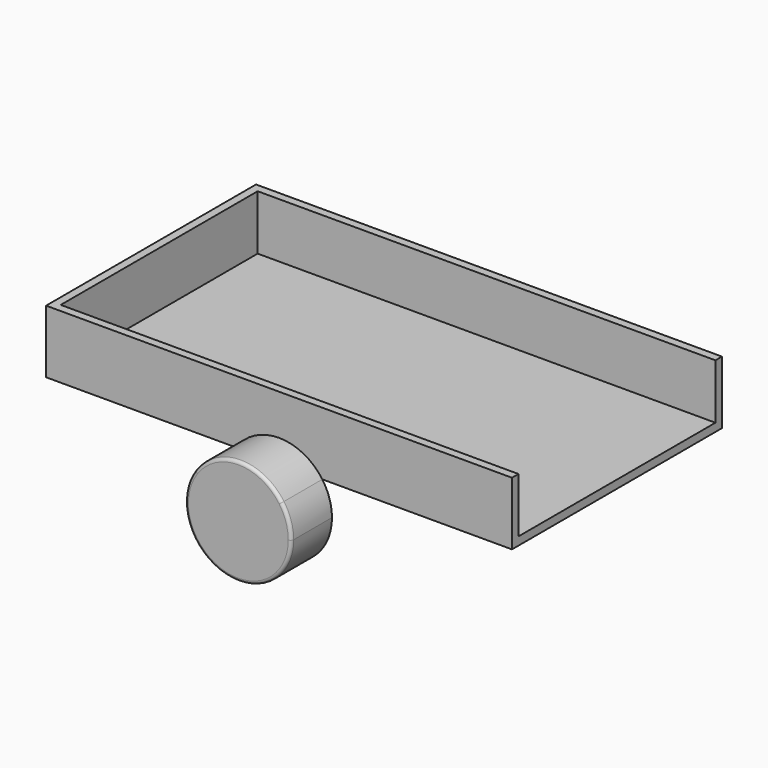
from build123d import *

# Parameters (mm, degrees)
F0_W     = 2290
F0_H     = 1290
F1_DEPTH = 310
F2_T     = -40
F4_DEPTH = 250
F5_R     = 15


with BuildPart() as f1:
    # F0 (on Top) → F1 (new body)
    with BuildSketch(Plane.XY):
        Rectangle(F0_W, F0_H)
    extrude(amount=F1_DEPTH)

    # F2
    f2_openings = [f1.faces().sort_by_distance(p)[0] for p in [
        (0, 0, 310),
        (1145, 0, 155),
    ]]
    offset(amount=F2_T, openings=f2_openings)

    # F3 (on face) → F4 (join)
    with BuildSketch(Plane.XZ.offset(645)):
        with BuildLine():
            Line((-212.795964, 0), (212.795964, 0))
            ThreePointArc((212.795964, 0), (0, 110.35), (-212.795964, 0))
        make_face()
        with BuildLine():
            ThreePointArc((-212.795964, 0), (-78.678756, -398.176904), (260.35, -150))
            ThreePointArc((260.35, -150), (248.176904, -71.321244), (212.795964, 0))
            Line((212.795964, 0), (-212.795964, 0))
        make_face()
    extrude(amount=F4_DEPTH)

    # F5
    f5_edges = [f1.edges().sort_by_distance(p)[0] for p in [
        (-260.35, -895, -150),
    ]]
    fillet(f5_edges, radius=F5_R)


solid = f1.part
